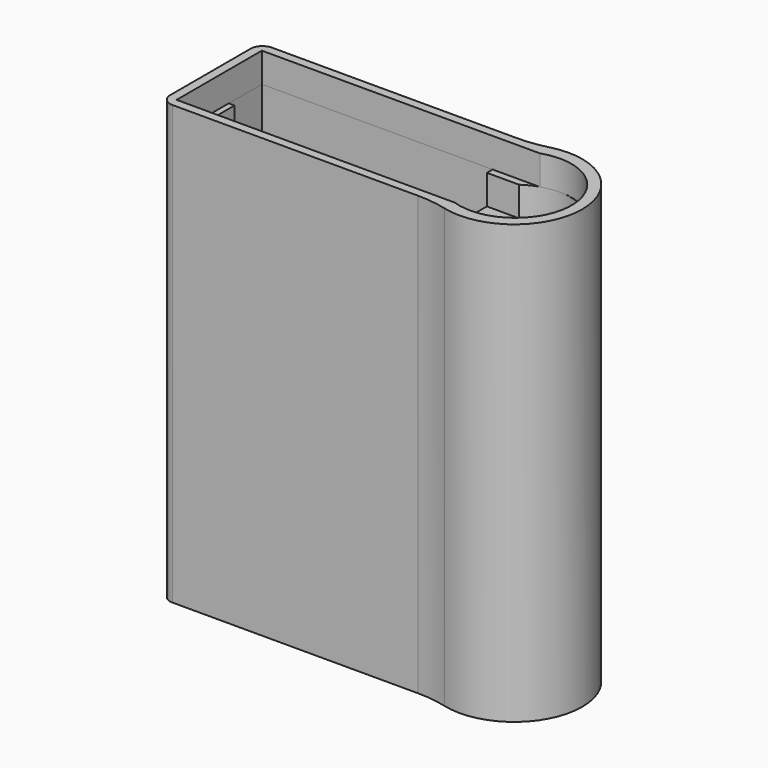
from build123d import *

# Parameters (mm, degrees)
PAD_DEPTH       = 74
POCKET_DEPTH    = 5
SKETCH001_R     = 9.5
POCKET001_DEPTH = 67
FILLET_R        = 20
FILLET001_R     = 2
FILLET002_R     = 20
FILLET003_R     = 2
SKETCH014_W     = 7.96524
SKETCH014_H     = 15.164599
POCKET005_DEPTH = 5


with BuildPart() as part:
    # Sketch002 → Pad (new body)
    with BuildSketch(Plane.XY):
        with BuildLine():
            Line((0, 21), (46.6148, 21))
            ThreePointArc((46.64809, 0), (62.821811, 10.525666), (46.6148, 21))
            Line((46.64809, 0), (0, 0))
            Line((0, 0), (0, 21))
        make_face()
    extrude(amount=PAD_DEPTH)

    # Sketch → Pocket (cut)
    with BuildSketch(Plane.XY.offset(74)):
        with BuildLine():
            Line((1.502029, 1.496604), (48.477029, 1.496604))
            ThreePointArc((48.477029, 1.496604), (61.01841, 10.496604), (48.477029, 19.496604))
            Line((1.502029, 19.496604), (48.477029, 19.496604))
            Line((1.502029, 19.496604), (1.502029, 1.496604))
        make_face()
    extrude(amount=-POCKET_DEPTH, mode=Mode.SUBTRACT)

    # Sketch001 → Pocket001 (cut)
    with BuildSketch(Plane.XY.offset(69)):
        with Locations((51.354257, 10.5)):
            Circle(SKETCH001_R)
        Polygon((1.487366, 19.5069), (40.487343, 19.54915), (40.471612, 12.505767), (39.471612, 12.504684), (39.504804, 1.504734), (2.504921, 1.504734), (2.471729, 12.504684), (1.471732, 12.506917), align=None)
    extrude(amount=-POCKET001_DEPTH, mode=Mode.SUBTRACT)

    # Fillet
    fillet_edges = [part.edges().sort_by_distance(p)[0] for p in [
        (46.6148, 21, 37),
    ]]
    fillet(fillet_edges, radius=FILLET_R)

    # Fillet001
    fillet001_edges = [part.edges().sort_by_distance(p)[0] for p in [
        (0, 21, 37),
    ]]
    fillet(fillet001_edges, radius=FILLET001_R)

    # Fillet002
    fillet002_edges = [part.edges().sort_by_distance(p)[0] for p in [
        (46.64809, 0, 37),
    ]]
    fillet(fillet002_edges, radius=FILLET002_R)

    # Fillet003
    fillet003_edges = [part.edges().sort_by_distance(p)[0] for p in [
        (0, 0, 37),
    ]]
    fillet(fillet003_edges, radius=FILLET003_R)

    # Sketch014 → Pocket005 (cut)
    with BuildSketch(Plane.XY.offset(69)):
        with Locations((42.834709, 10.705082)):
            Rectangle(SKETCH014_W, SKETCH014_H)
    extrude(amount=-POCKET005_DEPTH, mode=Mode.SUBTRACT)


solid = part.part
